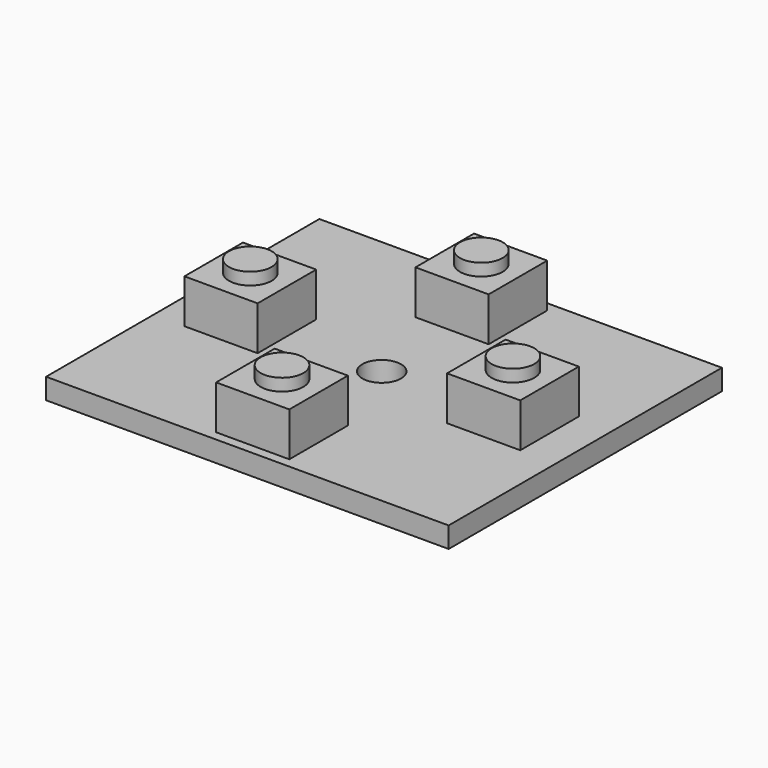
from build123d import *

# Parameters (mm, degrees)
CYLINDER001_R     = 1.75
CYLINDER001_DEPTH = 1
BOX002_W          = 6
BOX002_H          = 6
BOX002_DEPTH      = 3.6
CYLINDER002_R     = 1.75
CYLINDER002_DEPTH = 1
BOX003_W          = 6
BOX003_H          = 6
BOX003_DEPTH      = 3.6
CYLINDER003_R     = 1.75
CYLINDER003_DEPTH = 1
BOX004_W          = 6
BOX004_H          = 6
BOX004_DEPTH      = 3.6
CYLINDER004_R     = 1.588
CYLINDER004_DEPTH = 2
BOX001_W          = 33
BOX001_H          = 28
BOX001_DEPTH      = 1.7
CYLINDER_R        = 1.75
CYLINDER_DEPTH    = 1
BOX_W             = 6
BOX_H             = 6
BOX_DEPTH         = 3.6


with BuildPart() as obj1_top:
    # Cylinder001 → Cylinder001 (new body)
    with BuildSketch(Plane(origin=(3, 3, 3.6), x_dir=(1, 0, 0), z_dir=(0, 0, 1))):
        Circle(CYLINDER001_R)
    extrude(amount=CYLINDER001_DEPTH)


with BuildPart() as obj1:
    # Box002 → Box002 (new body)
    with BuildSketch(Plane.XY):
        with Locations((3, 3)):
            Rectangle(BOX002_W, BOX002_H)
    extrude(amount=BOX002_DEPTH)

    # Fusion001: union obj1_top
    add(obj1_top.part)


with BuildPart() as obj1_1:
    # Fusion001 placement: moved
    add(obj1.part.moved(Location((24.07, 11, 1.7))))


with BuildPart() as obj2_top:
    # Cylinder002 → Cylinder002 (new body)
    with BuildSketch(Plane(origin=(3, 3, 3.6), x_dir=(1, 0, 0), z_dir=(0, 0, 1))):
        Circle(CYLINDER002_R)
    extrude(amount=CYLINDER002_DEPTH)


with BuildPart() as obj2:
    # Box003 → Box003 (new body)
    with BuildSketch(Plane.XY):
        with Locations((3, 3)):
            Rectangle(BOX003_W, BOX003_H)
    extrude(amount=BOX003_DEPTH)

    # Fusion002: union obj2_top
    add(obj2_top.part)


with BuildPart() as obj2_1:
    # Fusion002 placement: moved
    add(obj2.part.moved(Location((13.31, 21.21, 1.7))))


with BuildPart() as obj3_top:
    # Cylinder003 → Cylinder003 (new body)
    with BuildSketch(Plane(origin=(3, 3, 3.6), x_dir=(1, 0, 0), z_dir=(0, 0, 1))):
        Circle(CYLINDER003_R)
    extrude(amount=CYLINDER003_DEPTH)


with BuildPart() as obj3:
    # Box004 → Box004 (new body)
    with BuildSketch(Plane.XY):
        with Locations((3, 3)):
            Rectangle(BOX004_W, BOX004_H)
    extrude(amount=BOX004_DEPTH)

    # Fusion003: union obj3_top
    add(obj3_top.part)


with BuildPart() as obj3_1:
    # Fusion003 placement: moved
    add(obj3.part.moved(Location((13.31, 0.787, 1.7))))


with BuildPart() as obj4:
    # Cylinder004 → Cylinder004 (new body)
    with BuildSketch(Plane(origin=(16.31, 14, 0), x_dir=(1, 0, 0), z_dir=(0, 0, 1))):
        Circle(CYLINDER004_R)
    extrude(amount=CYLINDER004_DEPTH)


with BuildPart() as cut:
    # Box001 → Box001 (new body)
    with BuildSketch(Plane.XY):
        with Locations((16.5, 14)):
            Rectangle(BOX001_W, BOX001_H)
    extrude(amount=BOX001_DEPTH)

    # Cut: cut obj4
    add(obj4.part, mode=Mode.SUBTRACT)


with BuildPart() as obj5:
    # Cylinder → Cylinder (new body)
    with BuildSketch(Plane(origin=(3, 3, 3.6), x_dir=(1, 0, 0), z_dir=(0, 0, 1))):
        Circle(CYLINDER_R)
    extrude(amount=CYLINDER_DEPTH)


with BuildPart() as obj6:
    # Box → Box (new body)
    with BuildSketch(Plane.XY):
        with Locations((3, 3)):
            Rectangle(BOX_W, BOX_H)
    extrude(amount=BOX_DEPTH)

    # Fusion: union obj5
    add(obj5.part)


with BuildPart() as obj6_1:
    # Fusion placement: moved
    add(obj6.part.moved(Location((2.54, 11, 1.7))))

    # Fusion004: union obj1, obj2, obj3, Cut
    add(obj1_1.part)
    add(obj2_1.part)
    add(obj3_1.part)
    add(cut.part)


solid = obj6_1.part
